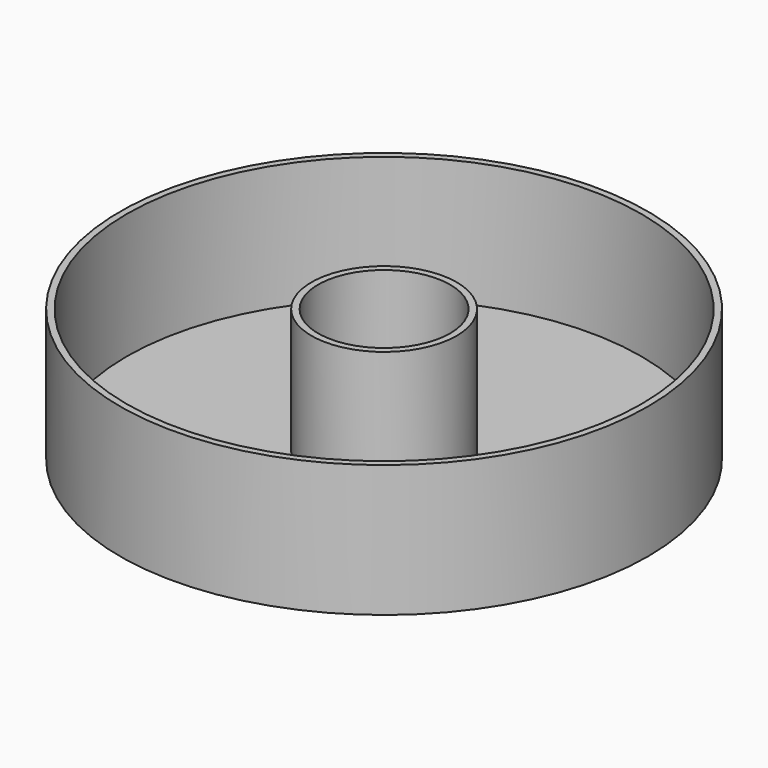
from build123d import *

# Parameters (mm, degrees)
F0_R     = 508
F0_R_2   = 127
F1_DEPTH = 254
F2_T     = -12.7


with BuildPart() as f1:
    # F0 (on Top) → F1 (new body)
    with BuildSketch(Plane.XY):
        Circle(F0_R)
        Circle(F0_R_2, mode=Mode.SUBTRACT)
    extrude(amount=F1_DEPTH)

    # F2
    f2_openings = [f1.faces().sort_by_distance(p)[0] for p in [
        (-493.63159, 0, 254),
    ]]
    offset(amount=F2_T, openings=f2_openings)


solid = f1.part
